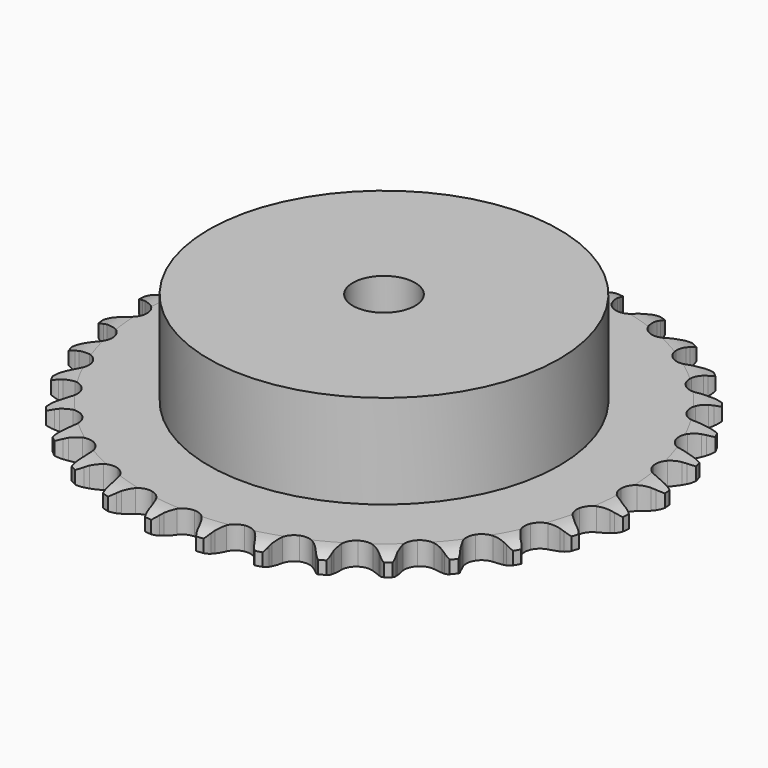
from build123d import *

# Parameters (mm, degrees)
PAD_DEPTH         = 5.9
SKETCH001_R       = 45
PAD001_DEPTH      = 30
SKETCH002_R       = 8
POCKET_DEPTH      = 0.001
POCKET_DEPTH_BACK = 30.001


with BuildPart() as part:
    # Sprocket → Pad (new body)
    with BuildSketch(Plane.XY):
        with BuildLine():
            ThreePointArc((-6.751607, 68.550213), (-5.658096, 67.364663), (-4.901426, 65.940322))
            Line((-4.901426, 65.940322), (-4.523375, 64.935864))
            ThreePointArc((-4.523375, 64.935864), (-3.923743, 63.631422), (-3.14577, 62.424822))
            ThreePointArc((-3.14577, 62.424822), (-1.7585, 61.267197), (0, 60.852112))
            ThreePointArc((0, 60.852112), (1.7585, 61.267197), (3.14577, 62.424822))
            ThreePointArc((3.14577, 62.424822), (3.923743, 63.631422), (4.523375, 64.935864))
            Line((4.523375, 64.935864), (4.901426, 65.940322))
            ThreePointArc((4.901426, 65.940322), (5.658096, 67.364663), (6.751607, 68.550213))
            ThreePointArc((6.751607, 68.550213), (7.592817, 67.17411), (8.057072, 65.629518))
            Line((8.057072, 65.629518), (8.231899, 64.570607))
            ThreePointArc((8.231899, 64.570607), (8.565525, 63.174247), (9.093154, 61.839056))
            ThreePointArc((9.093154, 61.839056), (10.227927, 60.433031), (11.871658, 59.682856))
            ThreePointArc((11.871658, 59.682856), (13.677348, 59.746898), (15.263803, 60.611638))
            Line((15.263803, 60.611638), (17.104818, 62.805673))
            ThreePointArc((17.104818, 62.805673), (17.376116, 63.268884), (17.671565, 63.717077))
            ThreePointArc((17.671565, 63.717077), (18.691571, 64.96643), (19.99536, 65.915867))
            ThreePointArc((19.99536, 65.915867), (20.551942, 64.402093), (20.705942, 62.796609))
            Line((20.705942, 62.796609), (20.670826, 61.723937))
            ThreePointArc((20.670826, 61.723937), (20.725625, 60.28932), (20.982633, 58.87685))
            ThreePointArc((20.982633, 58.87685), (21.821299, 57.276458), (23.287095, 56.220021))
            ThreePointArc((23.287095, 56.220021), (25.070583, 55.93056), (26.795258, 56.469182))
            Line((26.795258, 56.469182), (29.028933, 58.261895))
            ThreePointArc((29.028933, 58.261895), (29.385386, 58.663278), (29.762596, 59.04522))
            ThreePointArc((29.762596, 59.04522), (31.006739, 60.071574), (32.470702, 60.748411))
            ThreePointArc((32.470702, 60.748411), (32.721267, 59.15514), (32.559094, 57.550461))
            Line((32.559094, 57.550461), (32.315385, 56.50525))
            ThreePointArc((32.315385, 56.50525), (32.089251, 55.087509), (32.065761, 53.652039))
            ThreePointArc((32.065761, 53.652039), (32.576092, 51.918782), (33.807622, 50.596682))
            ThreePointArc((33.807622, 50.596682), (35.50037, 49.964842), (37.296985, 50.156647))
            Line((37.296985, 50.156647), (39.837482, 51.479146))
            ThreePointArc((39.837482, 51.479146), (40.265392, 51.803275), (40.709867, 52.104288))
            ThreePointArc((40.709867, 52.104288), (42.130336, 52.868201), (43.698214, 53.246427))
            ThreePointArc((43.698214, 53.246427), (43.633132, 51.634888), (43.161018, 50.092681))
            Line((43.161018, 50.092681), (42.718081, 49.115099))
            ThreePointArc((42.718081, 49.115099), (42.219705, 47.768716), (41.91662, 46.36541))
            ThreePointArc((41.91662, 46.36541), (42.079003, 44.565897), (43.028941, 43.028941))
            ThreePointArc((43.028941, 43.028941), (44.565897, 42.079003), (46.36541, 41.91662))
            Line((46.36541, 41.91662), (49.115099, 42.718081))
            ThreePointArc((49.115099, 42.718081), (49.598021, 42.952502), (50.092681, 43.161018))
            ThreePointArc((50.092681, 43.161018), (51.634888, 43.633132), (53.246427, 43.698214))
            ThreePointArc((53.246427, 43.698214), (52.868201, 42.130336), (52.104288, 40.709867))
            Line((52.104288, 40.709867), (51.479146, 39.837482))
            ThreePointArc((51.479146, 39.837482), (50.727679, 38.614197), (50.156647, 37.296985))
            ThreePointArc((50.156647, 37.296985), (49.964842, 35.50037), (50.596682, 33.807622))
            ThreePointArc((50.596682, 33.807622), (51.918782, 32.576092), (53.652039, 32.065761))
            Line((53.652039, 32.065761), (56.50525, 32.315385))
            ThreePointArc((56.50525, 32.315385), (57.024626, 32.451088), (57.550461, 32.559094))
            ThreePointArc((57.550461, 32.559094), (59.15514, 32.721267), (60.748411, 32.470702))
            ThreePointArc((60.748411, 32.470702), (60.071574, 31.006739), (59.04522, 29.762596))
            Line((59.04522, 29.762596), (58.261895, 29.028933))
            ThreePointArc((58.261895, 29.028933), (57.286217, 27.975757), (56.469182, 26.795258))
            ThreePointArc((56.469182, 26.795258), (55.93056, 25.070583), (56.220021, 23.287095))
            ThreePointArc((56.220021, 23.287095), (57.276458, 21.821299), (58.87685, 20.982633))
            Line((58.87685, 20.982633), (61.723937, 20.670826))
            ThreePointArc((61.723937, 20.670826), (62.259807, 20.702596), (62.796609, 20.705942))
            ThreePointArc((62.796609, 20.705942), (64.402093, 20.551942), (65.915867, 19.99536))
            ThreePointArc((65.915867, 19.99536), (64.96643, 18.691571), (63.717077, 17.671565))
            Line((63.717077, 17.671565), (62.805673, 17.104818))
            ThreePointArc((62.805673, 17.104818), (61.643278, 16.262224), (60.611638, 15.263803))
            ThreePointArc((60.611638, 15.263803), (59.746898, 13.677348), (59.682856, 11.871658))
            ThreePointArc((59.682856, 11.871658), (60.433031, 10.227927), (61.839056, 9.093154))
            Line((61.839056, 9.093154), (64.570607, 8.231899))
            ThreePointArc((64.570607, 8.231899), (65.102379, 8.158516), (65.629518, 8.057072))
            ThreePointArc((65.629518, 8.057072), (67.17411, 7.592817), (68.550213, 6.751607))
            ThreePointArc((68.550213, 6.751607), (67.364663, 5.658096), (65.940322, 4.901426))
            Line((65.940322, 4.901426), (64.935864, 4.523375))
            ThreePointArc((64.935864, 4.523375), (63.631422, 3.923743), (62.424822, 3.14577))
            ThreePointArc((62.424822, 3.14577), (61.267197, 1.7585), (60.852112, 0))
            ThreePointArc((60.852112, 0), (61.267197, -1.7585), (62.424822, -3.14577))
            Line((62.424822, -3.14577), (64.935864, -4.523375))
            ThreePointArc((64.935864, -4.523375), (65.443102, -4.699092), (65.940322, -4.901426))
            ThreePointArc((65.940322, -4.901426), (67.364663, -5.658096), (68.550213, -6.751607))
            ThreePointArc((68.550213, -6.751607), (67.17411, -7.592817), (65.629518, -8.057072))
            Line((65.629518, -8.057072), (64.570607, -8.231899))
            ThreePointArc((64.570607, -8.231899), (63.174247, -8.565525), (61.839056, -9.093154))
            ThreePointArc((61.839056, -9.093154), (60.433031, -10.227927), (59.682856, -11.871658))
            ThreePointArc((59.682856, -11.871658), (59.746898, -13.677348), (60.611638, -15.263803))
            Line((60.611638, -15.263803), (62.805673, -17.104818))
            ThreePointArc((62.805673, -17.104818), (63.268884, -17.376116), (63.717077, -17.671565))
            ThreePointArc((63.717077, -17.671565), (64.96643, -18.691571), (65.915867, -19.99536))
            ThreePointArc((65.915867, -19.99536), (64.402093, -20.551942), (62.796609, -20.705942))
            Line((62.796609, -20.705942), (61.723937, -20.670826))
            ThreePointArc((61.723937, -20.670826), (60.28932, -20.725625), (58.87685, -20.982633))
            ThreePointArc((58.87685, -20.982633), (57.276458, -21.821299), (56.220021, -23.287095))
            ThreePointArc((56.220021, -23.287095), (55.93056, -25.070583), (56.469182, -26.795258))
            Line((56.469182, -26.795258), (58.261895, -29.028933))
            ThreePointArc((58.261895, -29.028933), (58.663278, -29.385386), (59.04522, -29.762596))
            ThreePointArc((59.04522, -29.762596), (60.071574, -31.006739), (60.748411, -32.470702))
            ThreePointArc((60.748411, -32.470702), (59.15514, -32.721267), (57.550461, -32.559094))
            Line((57.550461, -32.559094), (56.50525, -32.315385))
            ThreePointArc((56.50525, -32.315385), (55.087509, -32.089251), (53.652039, -32.065761))
            ThreePointArc((53.652039, -32.065761), (51.918782, -32.576092), (50.596682, -33.807622))
            ThreePointArc((50.596682, -33.807622), (49.964842, -35.50037), (50.156647, -37.296985))
            Line((50.156647, -37.296985), (51.479146, -39.837482))
            ThreePointArc((51.479146, -39.837482), (51.803275, -40.265392), (52.104288, -40.709867))
            ThreePointArc((52.104288, -40.709867), (52.868201, -42.130336), (53.246427, -43.698214))
            ThreePointArc((53.246427, -43.698214), (51.634888, -43.633132), (50.092681, -43.161018))
            Line((50.092681, -43.161018), (49.115099, -42.718081))
            ThreePointArc((49.115099, -42.718081), (47.768716, -42.219705), (46.36541, -41.91662))
            ThreePointArc((46.36541, -41.91662), (44.565897, -42.079003), (43.028941, -43.028941))
            ThreePointArc((43.028941, -43.028941), (42.079003, -44.565897), (41.91662, -46.36541))
            Line((41.91662, -46.36541), (42.718081, -49.115099))
            ThreePointArc((42.718081, -49.115099), (42.952502, -49.598021), (43.161018, -50.092681))
            ThreePointArc((43.161018, -50.092681), (43.633132, -51.634888), (43.698214, -53.246427))
            ThreePointArc((43.698214, -53.246427), (42.130336, -52.868201), (40.709867, -52.104288))
            Line((40.709867, -52.104288), (39.837482, -51.479146))
            ThreePointArc((39.837482, -51.479146), (38.614197, -50.727679), (37.296985, -50.156647))
            ThreePointArc((37.296985, -50.156647), (35.50037, -49.964842), (33.807622, -50.596682))
            ThreePointArc((33.807622, -50.596682), (32.576092, -51.918782), (32.065761, -53.652039))
            Line((32.065761, -53.652039), (32.315385, -56.50525))
            ThreePointArc((32.315385, -56.50525), (32.451088, -57.024626), (32.559094, -57.550461))
            ThreePointArc((32.559094, -57.550461), (32.721267, -59.15514), (32.470702, -60.748411))
            ThreePointArc((32.470702, -60.748411), (31.006739, -60.071574), (29.762596, -59.04522))
            Line((29.762596, -59.04522), (29.028933, -58.261895))
            ThreePointArc((29.028933, -58.261895), (27.975757, -57.286217), (26.795258, -56.469182))
            ThreePointArc((26.795258, -56.469182), (25.070583, -55.93056), (23.287095, -56.220021))
            ThreePointArc((23.287095, -56.220021), (21.821299, -57.276458), (20.982633, -58.87685))
            Line((20.982633, -58.87685), (20.670826, -61.723937))
            ThreePointArc((20.670826, -61.723937), (20.702596, -62.259807), (20.705942, -62.796609))
            ThreePointArc((20.705942, -62.796609), (20.551942, -64.402093), (19.99536, -65.915867))
            ThreePointArc((19.99536, -65.915867), (18.691571, -64.96643), (17.671565, -63.717077))
            Line((17.671565, -63.717077), (17.104818, -62.805673))
            ThreePointArc((17.104818, -62.805673), (16.262224, -61.643278), (15.263803, -60.611638))
            ThreePointArc((15.263803, -60.611638), (13.677348, -59.746898), (11.871658, -59.682856))
            ThreePointArc((11.871658, -59.682856), (10.227927, -60.433031), (9.093154, -61.839056))
            Line((9.093154, -61.839056), (8.231899, -64.570607))
            ThreePointArc((8.231899, -64.570607), (8.158516, -65.102379), (8.057072, -65.629518))
            ThreePointArc((8.057072, -65.629518), (7.592817, -67.17411), (6.751607, -68.550213))
            ThreePointArc((6.751607, -68.550213), (5.658096, -67.364663), (4.901426, -65.940322))
            Line((4.901426, -65.940322), (4.523375, -64.935864))
            ThreePointArc((4.523375, -64.935864), (3.923743, -63.631422), (3.14577, -62.424822))
            ThreePointArc((3.14577, -62.424822), (1.7585, -61.267197), (0, -60.852112))
            ThreePointArc((0, -60.852112), (-1.7585, -61.267197), (-3.14577, -62.424822))
            Line((-3.14577, -62.424822), (-4.523375, -64.935864))
            ThreePointArc((-4.523375, -64.935864), (-4.699092, -65.443102), (-4.901426, -65.940322))
            ThreePointArc((-4.901426, -65.940322), (-5.658096, -67.364663), (-6.751607, -68.550213))
            ThreePointArc((-6.751607, -68.550213), (-7.592817, -67.17411), (-8.057072, -65.629518))
            Line((-8.057072, -65.629518), (-8.231899, -64.570607))
            ThreePointArc((-8.231899, -64.570607), (-8.565525, -63.174247), (-9.093154, -61.839056))
            ThreePointArc((-9.093154, -61.839056), (-10.227927, -60.433031), (-11.871658, -59.682856))
            ThreePointArc((-11.871658, -59.682856), (-13.677348, -59.746898), (-15.263803, -60.611638))
            Line((-15.263803, -60.611638), (-17.104818, -62.805673))
            ThreePointArc((-17.104818, -62.805673), (-17.376116, -63.268884), (-17.671565, -63.717077))
            ThreePointArc((-17.671565, -63.717077), (-18.691571, -64.96643), (-19.99536, -65.915867))
            ThreePointArc((-19.99536, -65.915867), (-20.551942, -64.402093), (-20.705942, -62.796609))
            Line((-20.705942, -62.796609), (-20.670826, -61.723937))
            ThreePointArc((-20.670826, -61.723937), (-20.725625, -60.28932), (-20.982633, -58.87685))
            ThreePointArc((-20.982633, -58.87685), (-21.821299, -57.276458), (-23.287095, -56.220021))
            ThreePointArc((-23.287095, -56.220021), (-25.070583, -55.93056), (-26.795258, -56.469182))
            Line((-26.795258, -56.469182), (-29.028933, -58.261895))
            ThreePointArc((-29.028933, -58.261895), (-29.385386, -58.663278), (-29.762596, -59.04522))
            ThreePointArc((-29.762596, -59.04522), (-31.006739, -60.071574), (-32.470702, -60.748411))
            ThreePointArc((-32.470702, -60.748411), (-32.721267, -59.15514), (-32.559094, -57.550461))
            Line((-32.559094, -57.550461), (-32.315385, -56.50525))
            ThreePointArc((-32.315385, -56.50525), (-32.089251, -55.087509), (-32.065761, -53.652039))
            ThreePointArc((-32.065761, -53.652039), (-32.576092, -51.918782), (-33.807622, -50.596682))
            ThreePointArc((-33.807622, -50.596682), (-35.50037, -49.964842), (-37.296985, -50.156647))
            Line((-37.296985, -50.156647), (-39.837482, -51.479146))
            ThreePointArc((-39.837482, -51.479146), (-40.265392, -51.803275), (-40.709867, -52.104288))
            ThreePointArc((-40.709867, -52.104288), (-42.130336, -52.868201), (-43.698214, -53.246427))
            ThreePointArc((-43.698214, -53.246427), (-43.633132, -51.634888), (-43.161018, -50.092681))
            Line((-43.161018, -50.092681), (-42.718081, -49.115099))
            ThreePointArc((-42.718081, -49.115099), (-42.219705, -47.768716), (-41.91662, -46.36541))
            ThreePointArc((-41.91662, -46.36541), (-42.079003, -44.565897), (-43.028941, -43.028941))
            ThreePointArc((-43.028941, -43.028941), (-44.565897, -42.079003), (-46.36541, -41.91662))
            Line((-46.36541, -41.91662), (-49.115099, -42.718081))
            ThreePointArc((-49.115099, -42.718081), (-49.598021, -42.952502), (-50.092681, -43.161018))
            ThreePointArc((-50.092681, -43.161018), (-51.634888, -43.633132), (-53.246427, -43.698214))
            ThreePointArc((-53.246427, -43.698214), (-52.868201, -42.130336), (-52.104288, -40.709867))
            Line((-52.104288, -40.709867), (-51.479146, -39.837482))
            ThreePointArc((-51.479146, -39.837482), (-50.727679, -38.614197), (-50.156647, -37.296985))
            ThreePointArc((-50.156647, -37.296985), (-49.964842, -35.50037), (-50.596682, -33.807622))
            ThreePointArc((-50.596682, -33.807622), (-51.918782, -32.576092), (-53.652039, -32.065761))
            Line((-53.652039, -32.065761), (-56.50525, -32.315385))
            ThreePointArc((-56.50525, -32.315385), (-57.024626, -32.451088), (-57.550461, -32.559094))
            ThreePointArc((-57.550461, -32.559094), (-59.15514, -32.721267), (-60.748411, -32.470702))
            ThreePointArc((-60.748411, -32.470702), (-60.071574, -31.006739), (-59.04522, -29.762596))
            Line((-59.04522, -29.762596), (-58.261895, -29.028933))
            ThreePointArc((-58.261895, -29.028933), (-57.286217, -27.975757), (-56.469182, -26.795258))
            ThreePointArc((-56.469182, -26.795258), (-55.93056, -25.070583), (-56.220021, -23.287095))
            ThreePointArc((-56.220021, -23.287095), (-57.276458, -21.821299), (-58.87685, -20.982633))
            Line((-58.87685, -20.982633), (-61.723937, -20.670826))
            ThreePointArc((-61.723937, -20.670826), (-62.259807, -20.702596), (-62.796609, -20.705942))
            ThreePointArc((-62.796609, -20.705942), (-64.402093, -20.551942), (-65.915867, -19.99536))
            ThreePointArc((-65.915867, -19.99536), (-64.96643, -18.691571), (-63.717077, -17.671565))
            Line((-63.717077, -17.671565), (-62.805673, -17.104818))
            ThreePointArc((-62.805673, -17.104818), (-61.643278, -16.262224), (-60.611638, -15.263803))
            ThreePointArc((-60.611638, -15.263803), (-59.746898, -13.677348), (-59.682856, -11.871658))
            ThreePointArc((-59.682856, -11.871658), (-60.433031, -10.227927), (-61.839056, -9.093154))
            Line((-61.839056, -9.093154), (-64.570607, -8.231899))
            ThreePointArc((-64.570607, -8.231899), (-65.102379, -8.158516), (-65.629518, -8.057072))
            ThreePointArc((-65.629518, -8.057072), (-67.17411, -7.592817), (-68.550213, -6.751607))
            ThreePointArc((-68.550213, -6.751607), (-67.364663, -5.658096), (-65.940322, -4.901426))
            Line((-65.940322, -4.901426), (-64.935864, -4.523375))
            ThreePointArc((-64.935864, -4.523375), (-63.631422, -3.923743), (-62.424822, -3.14577))
            ThreePointArc((-62.424822, -3.14577), (-61.267197, -1.7585), (-60.852112, 0))
            ThreePointArc((-60.852112, 0), (-61.267197, 1.7585), (-62.424822, 3.14577))
            Line((-62.424822, 3.14577), (-64.935864, 4.523375))
            ThreePointArc((-64.935864, 4.523375), (-65.443102, 4.699092), (-65.940322, 4.901426))
            ThreePointArc((-65.940322, 4.901426), (-67.364663, 5.658096), (-68.550213, 6.751607))
            ThreePointArc((-68.550213, 6.751607), (-67.17411, 7.592817), (-65.629518, 8.057072))
            Line((-65.629518, 8.057072), (-64.570607, 8.231899))
            ThreePointArc((-64.570607, 8.231899), (-63.174247, 8.565525), (-61.839056, 9.093154))
            ThreePointArc((-61.839056, 9.093154), (-60.433031, 10.227927), (-59.682856, 11.871658))
            ThreePointArc((-59.682856, 11.871658), (-59.746898, 13.677348), (-60.611638, 15.263803))
            Line((-60.611638, 15.263803), (-62.805673, 17.104818))
            ThreePointArc((-62.805673, 17.104818), (-63.268884, 17.376116), (-63.717077, 17.671565))
            ThreePointArc((-63.717077, 17.671565), (-64.96643, 18.691571), (-65.915867, 19.99536))
            ThreePointArc((-65.915867, 19.99536), (-64.402093, 20.551942), (-62.796609, 20.705942))
            Line((-62.796609, 20.705942), (-61.723937, 20.670826))
            ThreePointArc((-61.723937, 20.670826), (-60.28932, 20.725625), (-58.87685, 20.982633))
            ThreePointArc((-58.87685, 20.982633), (-57.276458, 21.821299), (-56.220021, 23.287095))
            ThreePointArc((-56.220021, 23.287095), (-55.93056, 25.070583), (-56.469182, 26.795258))
            Line((-56.469182, 26.795258), (-58.261895, 29.028933))
            ThreePointArc((-58.261895, 29.028933), (-58.663278, 29.385386), (-59.04522, 29.762596))
            ThreePointArc((-59.04522, 29.762596), (-60.071574, 31.006739), (-60.748411, 32.470702))
            ThreePointArc((-60.748411, 32.470702), (-59.15514, 32.721267), (-57.550461, 32.559094))
            Line((-57.550461, 32.559094), (-56.50525, 32.315385))
            ThreePointArc((-56.50525, 32.315385), (-55.087509, 32.089251), (-53.652039, 32.065761))
            ThreePointArc((-53.652039, 32.065761), (-51.918782, 32.576092), (-50.596682, 33.807622))
            ThreePointArc((-50.596682, 33.807622), (-49.964842, 35.50037), (-50.156647, 37.296985))
            Line((-50.156647, 37.296985), (-51.479146, 39.837482))
            ThreePointArc((-51.479146, 39.837482), (-51.803275, 40.265392), (-52.104288, 40.709867))
            ThreePointArc((-52.104288, 40.709867), (-52.868201, 42.130336), (-53.246427, 43.698214))
            ThreePointArc((-53.246427, 43.698214), (-51.634888, 43.633132), (-50.092681, 43.161018))
            Line((-50.092681, 43.161018), (-49.115099, 42.718081))
            ThreePointArc((-49.115099, 42.718081), (-47.768716, 42.219705), (-46.36541, 41.91662))
            ThreePointArc((-46.36541, 41.91662), (-44.565897, 42.079003), (-43.028941, 43.028941))
            ThreePointArc((-43.028941, 43.028941), (-42.079003, 44.565897), (-41.91662, 46.36541))
            Line((-41.91662, 46.36541), (-42.718081, 49.115099))
            ThreePointArc((-42.718081, 49.115099), (-42.952502, 49.598021), (-43.161018, 50.092681))
            ThreePointArc((-43.161018, 50.092681), (-43.633132, 51.634888), (-43.698214, 53.246427))
            ThreePointArc((-43.698214, 53.246427), (-42.130336, 52.868201), (-40.709867, 52.104288))
            Line((-40.709867, 52.104288), (-39.837482, 51.479146))
            ThreePointArc((-39.837482, 51.479146), (-38.614197, 50.727679), (-37.296985, 50.156647))
            ThreePointArc((-37.296985, 50.156647), (-35.50037, 49.964842), (-33.807622, 50.596682))
            ThreePointArc((-33.807622, 50.596682), (-32.576092, 51.918782), (-32.065761, 53.652039))
            Line((-32.065761, 53.652039), (-32.315385, 56.50525))
            ThreePointArc((-32.315385, 56.50525), (-32.451088, 57.024626), (-32.559094, 57.550461))
            ThreePointArc((-32.559094, 57.550461), (-32.721267, 59.15514), (-32.470702, 60.748411))
            ThreePointArc((-32.470702, 60.748411), (-31.006739, 60.071574), (-29.762596, 59.04522))
            Line((-29.762596, 59.04522), (-29.028933, 58.261895))
            ThreePointArc((-29.028933, 58.261895), (-27.975757, 57.286217), (-26.795258, 56.469182))
            ThreePointArc((-26.795258, 56.469182), (-25.070583, 55.93056), (-23.287095, 56.220021))
            ThreePointArc((-23.287095, 56.220021), (-21.821299, 57.276458), (-20.982633, 58.87685))
            Line((-20.982633, 58.87685), (-20.670826, 61.723937))
            ThreePointArc((-20.670826, 61.723937), (-20.702596, 62.259807), (-20.705942, 62.796609))
            ThreePointArc((-20.705942, 62.796609), (-20.551942, 64.402093), (-19.99536, 65.915867))
            ThreePointArc((-19.99536, 65.915867), (-18.691571, 64.96643), (-17.671565, 63.717077))
            Line((-17.671565, 63.717077), (-17.104818, 62.805673))
            ThreePointArc((-17.104818, 62.805673), (-16.262224, 61.643278), (-15.263803, 60.611638))
            ThreePointArc((-15.263803, 60.611638), (-13.677348, 59.746898), (-11.871658, 59.682856))
            ThreePointArc((-11.871658, 59.682856), (-10.227927, 60.433031), (-9.093154, 61.839056))
            Line((-9.093154, 61.839056), (-8.231899, 64.570607))
            ThreePointArc((-8.231899, 64.570607), (-8.158516, 65.102379), (-8.057072, 65.629518))
            ThreePointArc((-8.057072, 65.629518), (-7.592817, 67.17411), (-6.751607, 68.550213))
        make_face()
    extrude(amount=PAD_DEPTH)

    # Sketch → Groove (revolve, cut)
    with BuildSketch(Plane.XZ):
        with BuildLine():
            Line((62.083431, 0), (67.75, 0))
            Line((73.416569, 0), (67.75, 0))
            Line((73.416569, 5.9), (73.416569, 0))
            Line((67.75, 5.9), (73.416569, 5.9))
            Line((62.083431, 5.9), (67.75, 5.9))
            ThreePointArc((67.75, 4.6), (64.99032, 5.570833), (62.083431, 5.9))
            Line((67.75, 1.3), (67.75, 4.6))
            ThreePointArc((62.083431, 0), (64.99032, 0.329167), (67.75, 1.3))
        make_face()
    revolve(axis=Axis((0, 0, 0), (0, 0, 1)), mode=Mode.SUBTRACT)

    # Sketch001 → Pad001 (join)
    with BuildSketch(Plane.XY):
        Circle(SKETCH001_R)
    extrude(amount=PAD001_DEPTH)

    # Sketch002 → Pocket (cut, two sides)
    with BuildSketch(Plane.XY) as pocket_sk:
        Circle(SKETCH002_R)
    extrude(amount=-POCKET_DEPTH, mode=Mode.SUBTRACT)
    extrude(pocket_sk.sketch, amount=POCKET_DEPTH_BACK, mode=Mode.SUBTRACT)


solid = part.part
